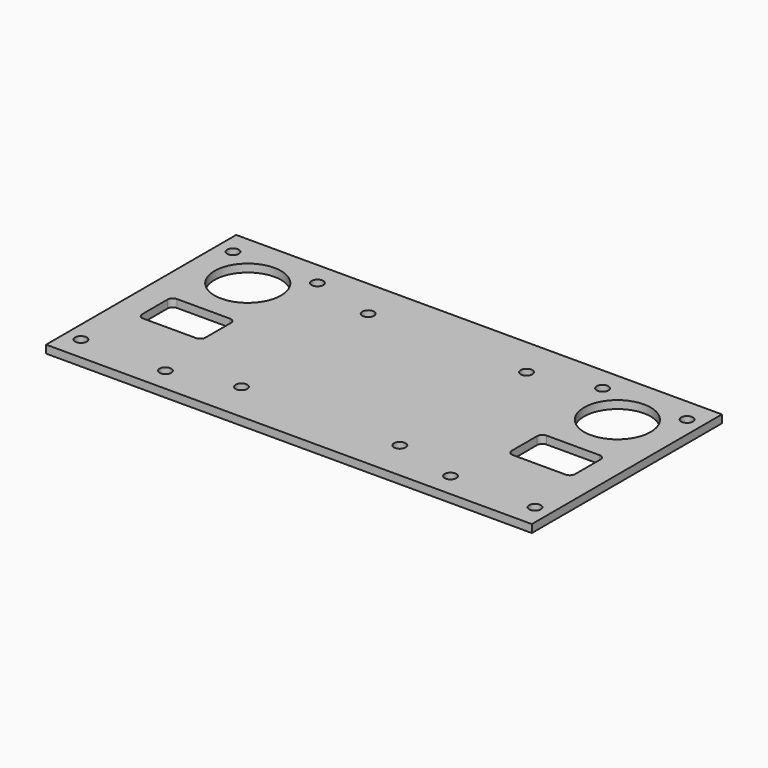
from build123d import *

# Parameters (mm, degrees)
F0_W     = 92
F0_H     = 45
F0_R     = 1.1
F0_R_2   = 6.3
F1_DEPTH = 1.5


with BuildPart() as f1:
    # F0 (on Top) → F1 (new body)
    with BuildSketch(Plane.XY):
        Rectangle(F0_W, F0_H)
        with Locations((-43, -18)):
            Circle(F0_R, mode=Mode.SUBTRACT)
        with Locations((-27, -18)):
            Circle(F0_R, mode=Mode.SUBTRACT)
        with Locations((-15, -15)):
            Circle(F0_R, mode=Mode.SUBTRACT)
        with BuildLine():
            ThreePointArc((-29, -6), (-29.292893, -6.707107), (-30, -7))
            Line((-30, -7), (-40, -7))
            ThreePointArc((-40, -7), (-40.707107, -6.707107), (-41, -6))
            Line((-41, -6), (-41, 0))
            ThreePointArc((-41, 0), (-40.707107, 0.707107), (-40, 1))
            Line((-40, 1), (-30, 1))
            ThreePointArc((-30, 1), (-29.292893, 0.707107), (-29, 0))
            Line((-29, 0), (-29, -6))
        make_face(mode=Mode.SUBTRACT)
        with Locations((15, -15)):
            Circle(F0_R, mode=Mode.SUBTRACT)
        with Locations((27, -18)):
            Circle(F0_R, mode=Mode.SUBTRACT)
        with Locations((43, -18)):
            Circle(F0_R, mode=Mode.SUBTRACT)
        with BuildLine():
            Line((30, 1), (40, 1))
            ThreePointArc((40, 1), (40.707107, 0.707107), (41, 0))
            Line((41, 0), (41, -6))
            ThreePointArc((41, -6), (40.707107, -6.707107), (40, -7))
            Line((40, -7), (30, -7))
            ThreePointArc((30, -7), (29.292893, -6.707107), (29, -6))
            Line((29, -6), (29, 0))
            ThreePointArc((29, 0), (29.292893, 0.707107), (30, 1))
        make_face(mode=Mode.SUBTRACT)
        with Locations((-35, 11.5)):
            Circle(F0_R_2, mode=Mode.SUBTRACT)
        with Locations((-43, 18)):
            Circle(F0_R, mode=Mode.SUBTRACT)
        with Locations((-27, 18)):
            Circle(F0_R, mode=Mode.SUBTRACT)
        with Locations((-15, 15)):
            Circle(F0_R, mode=Mode.SUBTRACT)
        with Locations((15, 15)):
            Circle(F0_R, mode=Mode.SUBTRACT)
        with Locations((35, 11.5)):
            Circle(F0_R_2, mode=Mode.SUBTRACT)
        with Locations((27, 18)):
            Circle(F0_R, mode=Mode.SUBTRACT)
        with Locations((43, 18)):
            Circle(F0_R, mode=Mode.SUBTRACT)
    extrude(amount=F1_DEPTH)


solid = f1.part
